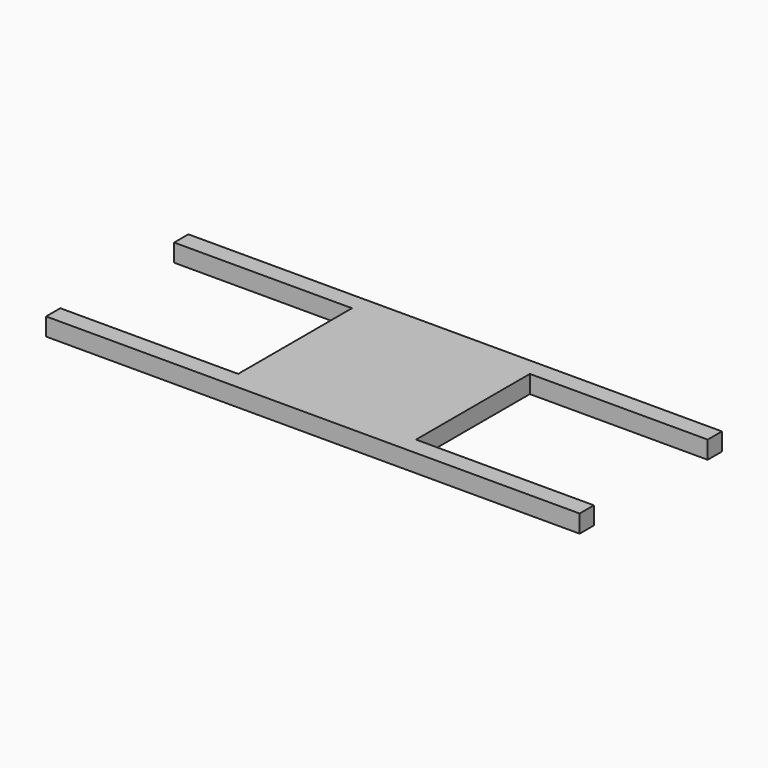
from build123d import *

# Parameters (mm, degrees)
F0_W     = 10
F0_H     = 1
F1_DEPTH = 1


with BuildPart() as f1:
    # F0 (on Top) → F1 (new body)
    with BuildSketch(Plane.XY):
        Polygon((10, 0), (0, 0), (0, -1), (0, -9), (0, -10), (10, -10), (10, -9), (10, -1), align=None)
        with Locations((-5, -0.5)):
            Rectangle(F0_W, F0_H)
        with Locations((15, -0.5)):
            Rectangle(F0_W, F0_H)
        with Locations((-5, -9.5)):
            Rectangle(F0_W, F0_H)
        with Locations((15, -9.5)):
            Rectangle(F0_W, F0_H)
    extrude(amount=F1_DEPTH)


solid = f1.part
